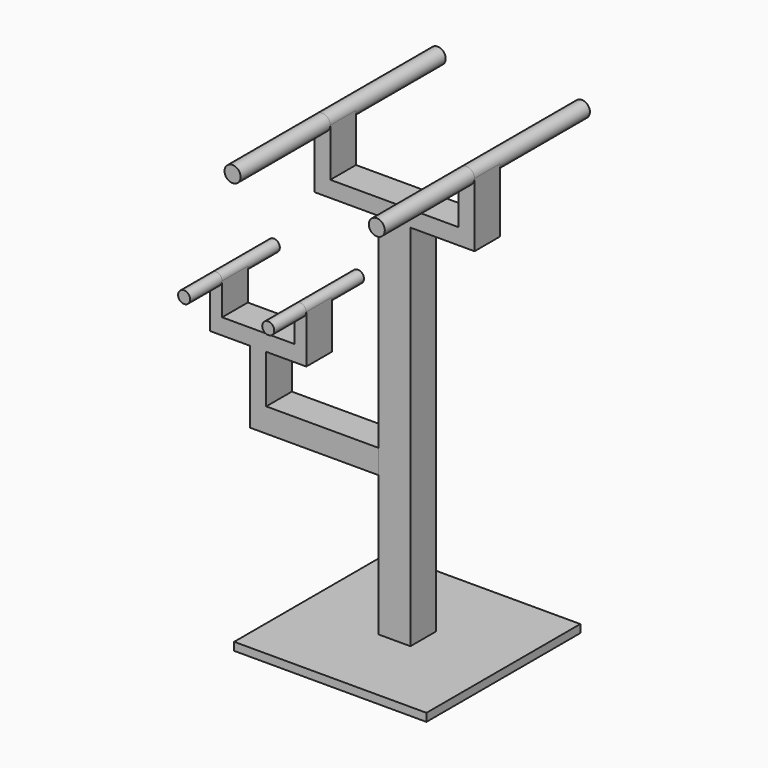
from build123d import *

# Parameters (mm, degrees)
F0_W           = 609.6
F0_H           = 609.6
F1_DEPTH       = 25.4
F2_W           = 101.6
F2_H           = 101.6
F3_DEPTH       = 1168.4
F4_W           = 508
F4_H           = 101.6
F5_DEPTH       = 50.8
F6_W           = 50.8
F6_H           = 101.6
F7_DEPTH       = 152.4
F8_R           = 25.4
F9_DEPTH       = 355.6
F9_DEPTH_BACK  = 457.2
F10_W          = 101.6
F10_H          = 76.2
F11_DEPTH      = 406.4
F12_W          = 50.8
F12_H          = 101.6
F13_DEPTH      = 152.4
F14_W          = 304.8
F14_H          = 101.6
F15_DEPTH      = 50.8
F16_W          = 38.1
F16_H          = 101.6
F17_DEPTH      = 101.6
F18_R          = 19.05
F19_DEPTH      = 127
F19_DEPTH_BACK = 228.6


with BuildPart() as f1:
    # F0 (on Top) → F1 (new body)
    with BuildSketch(Plane.XY):
        with Locations((304.8, 304.8)):
            Rectangle(F0_W, F0_H)
    extrude(amount=F1_DEPTH)

    # F2 (on face) → F3 (join)
    with BuildSketch(Plane.XY.offset(25.4)):
        with Locations((304.8, 304.8)):
            Rectangle(F2_W, F2_H)
    extrude(amount=F3_DEPTH)

    # F4 (on face) → F5 (join)
    with BuildSketch(Plane.XY.offset(1193.8)):
        with Locations((304.8, 304.8)):
            Rectangle(F4_W, F4_H)
    extrude(amount=F5_DEPTH)

    # F6 (on face) → F7 (join)
    with BuildSketch(Plane.XY.offset(1244.6)):
        with Locations((76.2, 304.8)):
            Rectangle(F6_W, F6_H)
        with Locations((533.4, 304.8)):
            Rectangle(F6_W, F6_H)
    extrude(amount=F7_DEPTH)

    # F8 (on face) → F9 (join, two sides)
    with BuildSketch(Plane.XZ.offset(-254)) as f9_sk:
        with Locations((76.2, 1397)):
            Circle(F8_R)
        with Locations((533.4, 1397)):
            Circle(F8_R)
    extrude(amount=F9_DEPTH)
    extrude(f9_sk.sketch, amount=-F9_DEPTH_BACK)


with BuildPart() as f11:
    # F10 (on face) → F11 (new body)
    with BuildSketch(Plane(origin=(254, 0, 0), x_dir=(0, -1, 0), z_dir=(-1, 0, 0))):
        with Locations((536.5433361636, 770.4250514507)):
            Rectangle(F10_W, F10_H)
    extrude(amount=F11_DEPTH)

    # F12 (on face) → F13 (join)
    with BuildSketch(Plane.XY.offset(808.5250514507)):
        with Locations((-127, -536.5433361636)):
            Rectangle(F12_W, F12_H)
    extrude(amount=F13_DEPTH)

    # F14 (on face) → F15 (join)
    with BuildSketch(Plane.XY.offset(960.9250514507)):
        with Locations((-127, -536.5433361636)):
            Rectangle(F14_W, F14_H)
    extrude(amount=F15_DEPTH)

    # F16 (on face) → F17 (join)
    with BuildSketch(Plane.XY.offset(1011.7250514507)):
        with Locations((-260.35, -536.5433361636)):
            Rectangle(F16_W, F16_H)
        with Locations((6.35, -536.5433361636)):
            Rectangle(F16_W, F16_H)
    extrude(amount=F17_DEPTH)

    # F18 (on face) → F19 (join, two sides)
    with BuildSketch(Plane.XZ.offset(587.3433361636)) as f19_sk:
        with Locations((-260.35, 1113.3250514507)):
            Circle(F18_R)
        with Locations((6.35, 1113.3250514507)):
            Circle(F18_R)
    extrude(amount=F19_DEPTH)
    extrude(f19_sk.sketch, amount=-F19_DEPTH_BACK)


with BuildPart() as f11_1:
    # F22: moved
    add(f11.part.moved(Location((0, 841.3433361636, -160.8250514507))))


with BuildPart() as f11_2:
    # F23: moved
    add(f11_1.part.moved(Location((0, 0, -101.6))))


solid = Compound([f1.part, f11_2.part])
